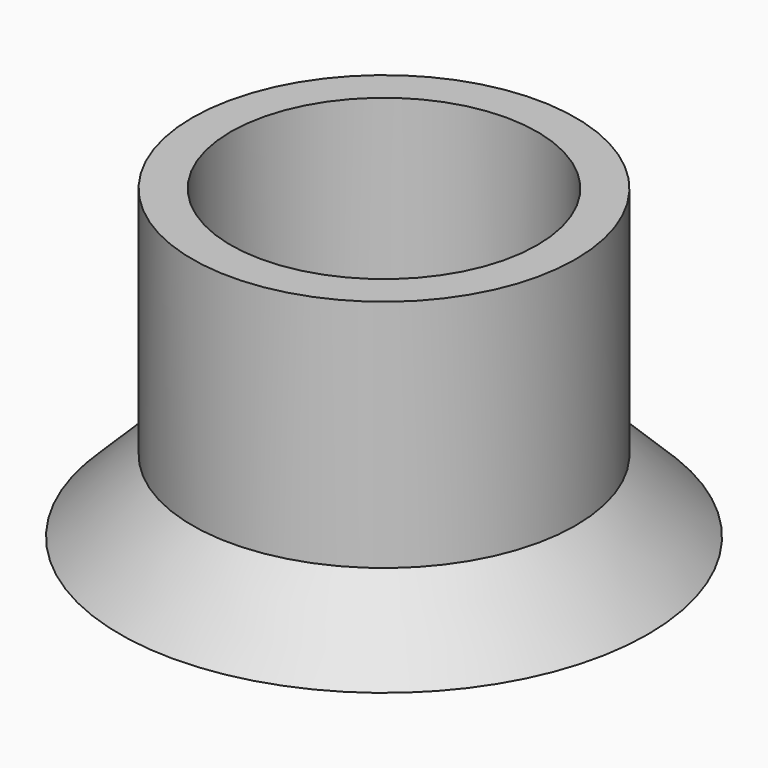
from build123d import *

# Parameters (mm, degrees)
F2_R     = 12
F3_DEPTH = 19


with BuildPart() as f1:
    # F0 (on Front) → F1 (revolve)
    with BuildSketch(Plane.XZ):
        Polygon((0, 24), (0, 0), (20.656854, 0), (15, 5.656854), (15, 24), align=None)
    revolve(axis=Axis((0, 0, 12), (0, 0, -1)))

    # F2 (on face) → F3 (cut)
    with BuildSketch(Plane.XY.offset(24)):
        Circle(F2_R)
    extrude(amount=-F3_DEPTH, mode=Mode.SUBTRACT)


solid = f1.part
